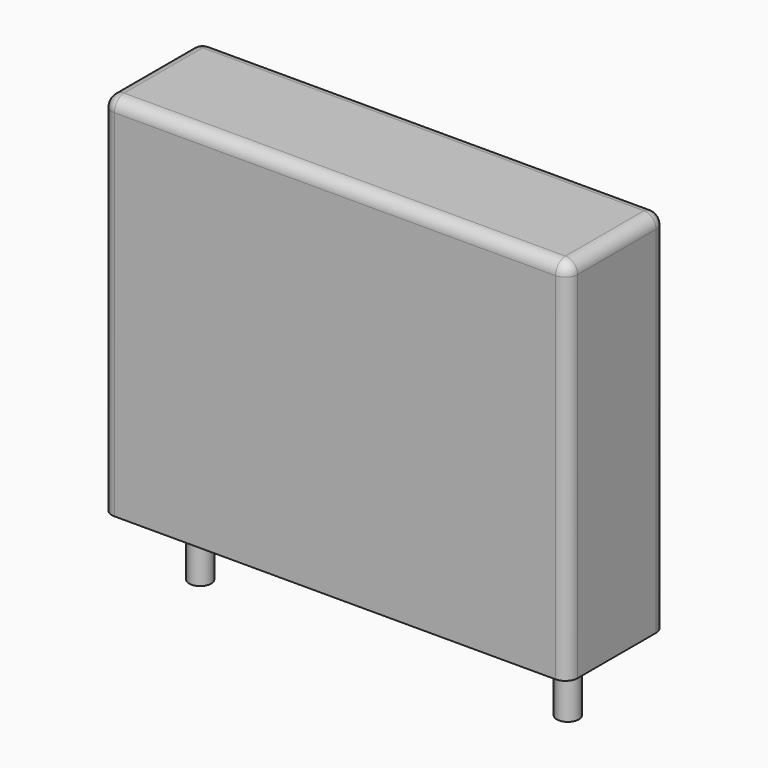
from build123d import *

# Parameters (mm, degrees)
SKETCH_W     = 19
SKETCH_H     = 5
PAD_DEPTH    = 15
FILLET_R     = 0.5
SKETCH001_R  = 0.45
PAD001_DEPTH = 3.2


with BuildPart() as fillet_body:
    # Sketch → Pad (new body)
    with BuildSketch(Plane.XY.offset(0.1)):
        with Locations((7.5, 0)):
            Rectangle(SKETCH_W, SKETCH_H)
    extrude(amount=PAD_DEPTH)

    # Fillet
    fillet_edges = [fillet_body.edges().sort_by_distance(p)[0] for p in [
        (-2, 0, 15.1),
        (-2, -2.5, 7.6),
        (7.5, -2.5, 15.1),
        (17, -2.5, 7.6),
        (17, 0, 15.1),
        (17, 2.5, 7.6),
        (7.5, 2.5, 15.1),
        (-2, 2.5, 7.6),
    ]]
    fillet(fillet_edges, radius=FILLET_R)


with BuildPart() as pad001:
    # Sketch001 → Pad001 (new body)
    with BuildSketch(Plane.XY.offset(0.5)):
        Circle(SKETCH001_R)
        with Locations((15, 0)):
            Circle(SKETCH001_R)
    extrude(amount=-PAD001_DEPTH)


solid = Compound([fillet_body.part, pad001.part])
